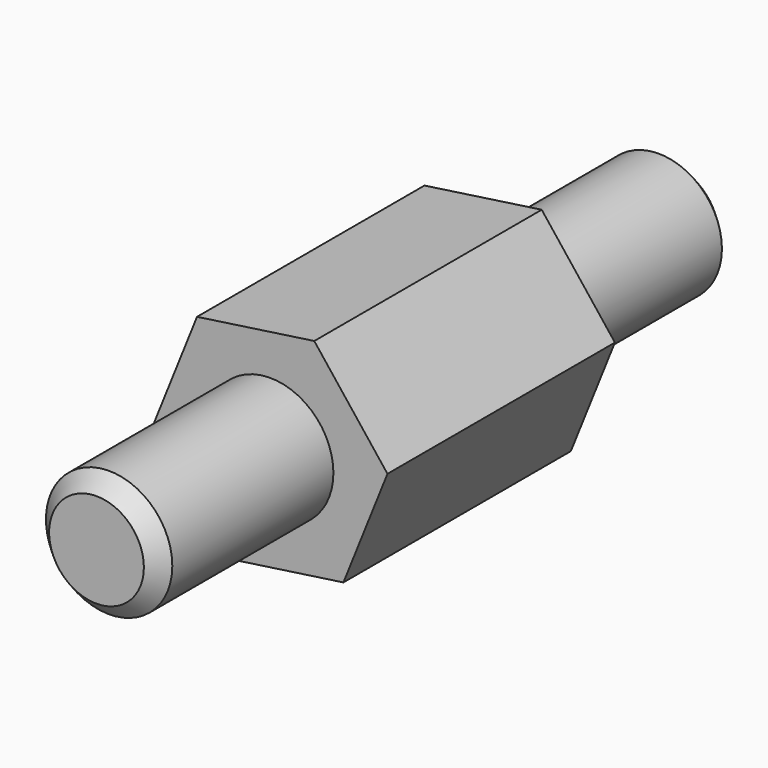
from build123d import *

# Parameters (mm, degrees)
F0_R     = 1.6
F1_DEPTH = 7.2
F2_DEPTH = 5.5
F3_R     = 1.6
F4_DEPTH = 5.5
F5_SIZE  = 0.4


with BuildPart() as f1:
    # F0 (on Front) → F1 (new body)
    with BuildSketch(Plane.XZ):
        Polygon((-35.112121, 32.045641), (-36.966095, 34.404195), (-39.93565, 33.977883), (-41.051231, 31.193017), (-39.197257, 28.834463), (-36.227701, 29.260775), align=None)
        with Locations((-38.081676, 31.619329)):
            Circle(F0_R, mode=Mode.SUBTRACT)
        with Locations((-38.081676, 31.619329)):
            Circle(F0_R)
    extrude(amount=F1_DEPTH)

    # F0 (on Front) → F2 (join)
    with BuildSketch(Plane.XZ):
        with Locations((-38.081676, 31.619329)):
            Circle(F0_R)
    extrude(amount=-F2_DEPTH)

    # F3 (on face) → F4 (join)
    with BuildSketch(Plane.XZ.offset(7.2)):
        with Locations((-38.081676, 31.619329)):
            Circle(F3_R)
    extrude(amount=F4_DEPTH)

    # F5
    f5_edges = [f1.edges().sort_by_distance(p)[0] for p in [
        (-39.681676, 5.5, 31.619329),
        (-39.681676, -12.7, 31.619329),
    ]]
    chamfer(f5_edges, length=F5_SIZE)


solid = f1.part
